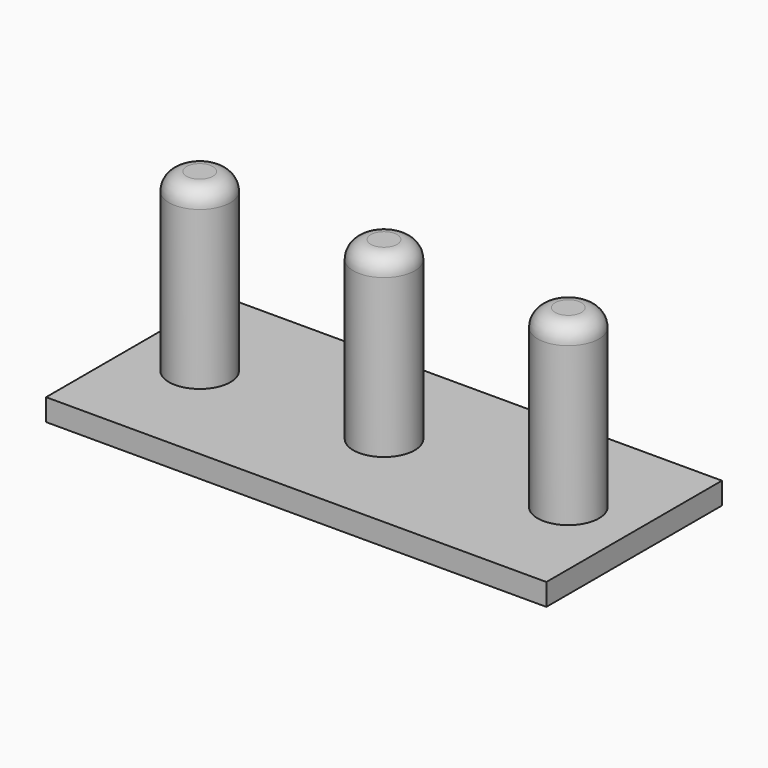
from build123d import *

# Parameters (mm, degrees)
F0_W     = 144.78
F0_H     = 63.5
F1_DEPTH = 6.35
F2_R     = 8.89
F3_DEPTH = 50.8
F4_R     = 5.08


with BuildPart() as f1:
    # F0 (on Top) → F1 (new body)
    with BuildSketch(Plane.XY):
        with Locations((15.891719, -6.567724)):
            Rectangle(F0_W, F0_H)
    extrude(amount=F1_DEPTH)

    # F2 (on face) → F3 (join)
    with BuildSketch(Plane.XY.offset(6.35)):
        with Locations((-37.448281, -6.567724)):
            Circle(F2_R)
        with Locations((15.891719, -6.567724)):
            Circle(F2_R)
        with Locations((69.231719, -6.567724)):
            Circle(F2_R)
    extrude(amount=F3_DEPTH)

    # F4
    f4_edges = [f1.edges().sort_by_distance(p)[0] for p in [
        (60.341719, -6.567724, 57.15),
        (7.001719, -6.567724, 57.15),
        (-46.338281, -6.567724, 57.15),
    ]]
    fillet(f4_edges, radius=F4_R)


solid = f1.part
